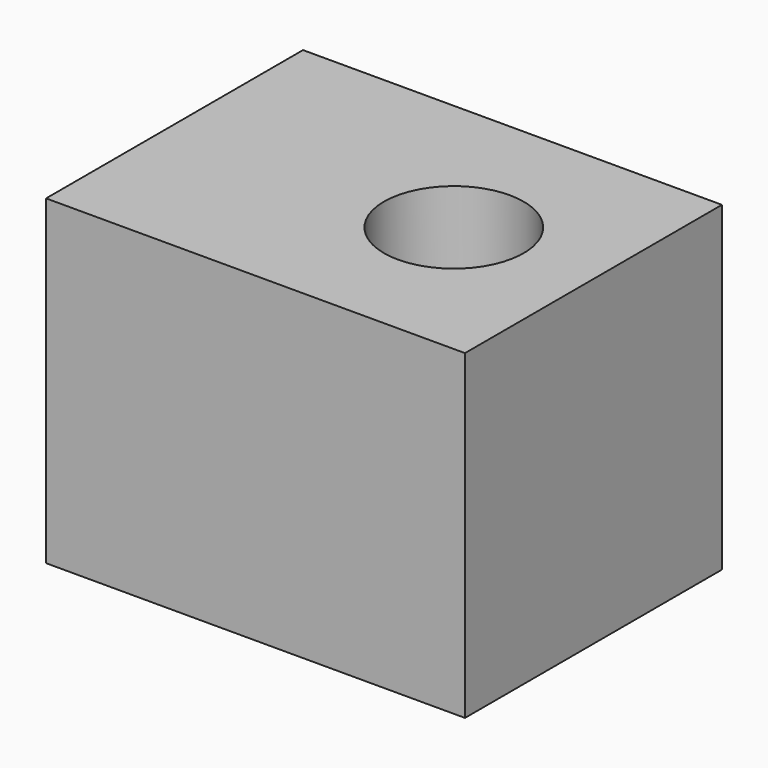
from build123d import *

# Parameters (mm, degrees)
F0_W     = 23
F0_H     = 23
F1_DEPTH = 30
F3_D     = 10


with BuildPart() as f1:
    # F0 (on Right) → F1 (new body)
    with BuildSketch(Plane.YZ):
        Rectangle(F0_W, F0_H)
    extrude(amount=F1_DEPTH)

    # F3 (through all)
    with Locations(Plane.XY.offset(11.5)):
        with Locations((20, 0)):
            Hole(F3_D / 2)


solid = f1.part
